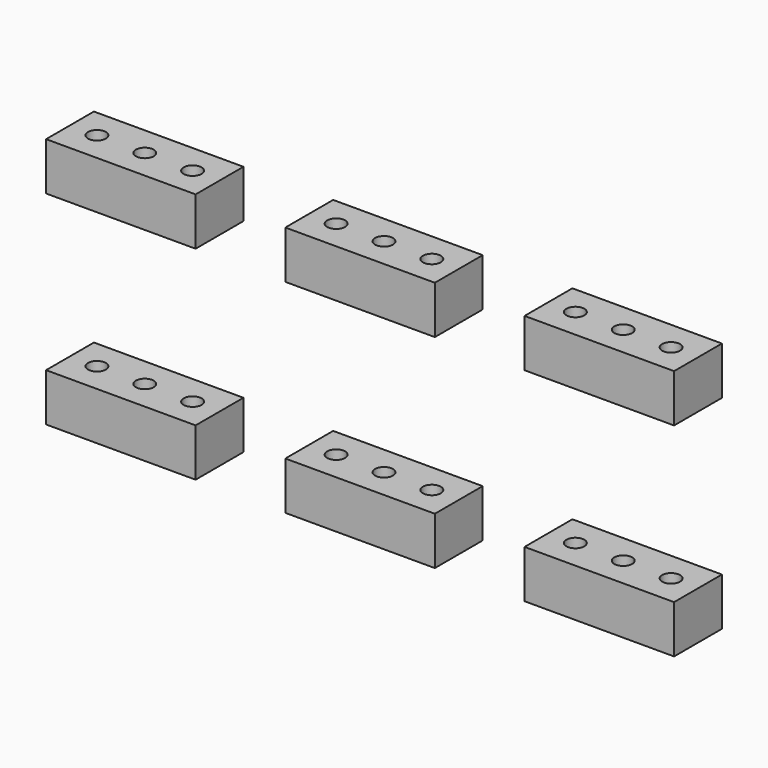
from build123d import *

# Parameters (mm, degrees)
F1_W     = 79.375
F1_H     = 25.4
F2_DEPTH = 31.75
F3_R     = 4.7625
F4_DEPTH = 133.351


with BuildPart() as f2:
    # F1 (on offset) → F2 (new body)
    with BuildSketch(Plane.XZ.offset(-152.4)):
        with Locations((242.8875, 730.25)):
            Rectangle(F1_W, F1_H)
        with Locations((369.8875, 730.25)):
            Rectangle(F1_W, F1_H)
        with Locations((496.8875, 730.25)):
            Rectangle(F1_W, F1_H)
        with Locations((242.8875, 622.3)):
            Rectangle(F1_W, F1_H)
        with Locations((369.8875, 622.3)):
            Rectangle(F1_W, F1_H)
        with Locations((496.8875, 622.3)):
            Rectangle(F1_W, F1_H)
    extrude(amount=F2_DEPTH)

    # F3 (on face) → F4 (cut, through all)
    with BuildSketch(Plane.XY.offset(742.95)):
        with Locations((217.4875, 136.525)):
            Circle(F3_R)
        with Locations((242.8875, 136.525)):
            Circle(F3_R)
        with Locations((268.2875, 136.525)):
            Circle(F3_R)
        with Locations((344.4875, 136.525)):
            Circle(F3_R)
        with Locations((369.8875, 136.525)):
            Circle(F3_R)
        with Locations((395.2875, 136.525)):
            Circle(F3_R)
        with Locations((471.4875, 136.525)):
            Circle(F3_R)
        with Locations((496.8875, 136.525)):
            Circle(F3_R)
        with Locations((522.2875, 136.525)):
            Circle(F3_R)
    extrude(amount=-F4_DEPTH, mode=Mode.SUBTRACT)


solid = f2.part
